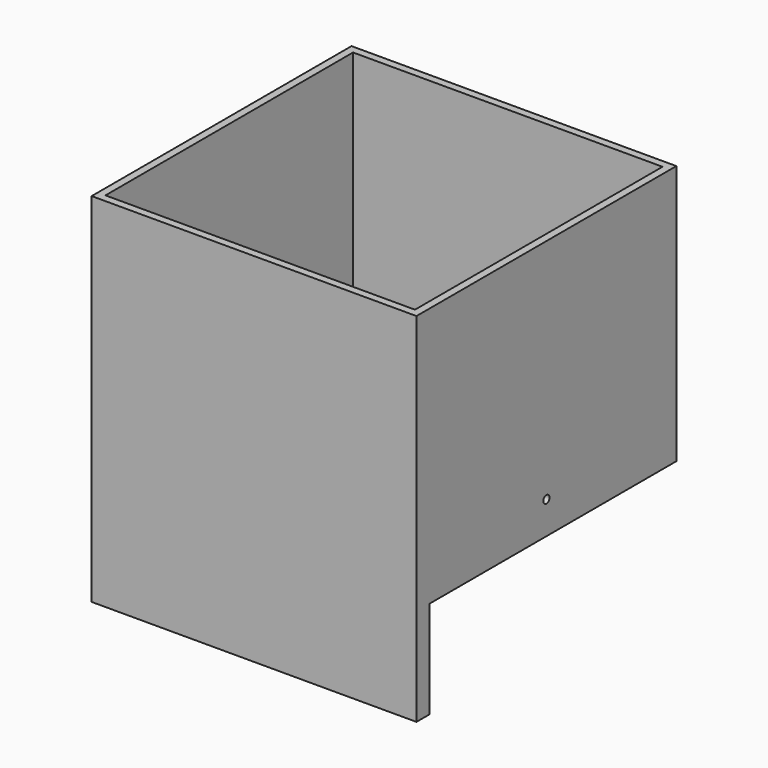
from build123d import *

# Parameters (mm, degrees)
F0_W     = 127
F0_H     = 127
F1_DEPTH = 101.6
F2_T     = -3
F4_W     = 127
F4_H     = 38.1
F5_DEPTH = 6.35
F6_D     = 3


with BuildPart() as f1:
    # F0 (on Top) → F1 (new body)
    with BuildSketch(Plane.XY):
        Rectangle(F0_W, F0_H)
    extrude(amount=F1_DEPTH)

    # F2
    f2_openings = [f1.faces().sort_by_distance(p)[0] for p in [
        (0, 0, 101.6),
    ]]
    offset(amount=F2_T, openings=f2_openings)

    # F4 (on face) → F5 (join)
    with BuildSketch(Plane.XZ.offset(63.5)):
        with Locations((0, -19.05)):
            Rectangle(F4_W, F4_H)
    extrude(amount=-F5_DEPTH)

    # F6 (through all)
    with Locations(Plane.YZ.offset(63.5)):
        with Locations((0, 12.7)):
            Hole(F6_D / 2)


solid = f1.part
